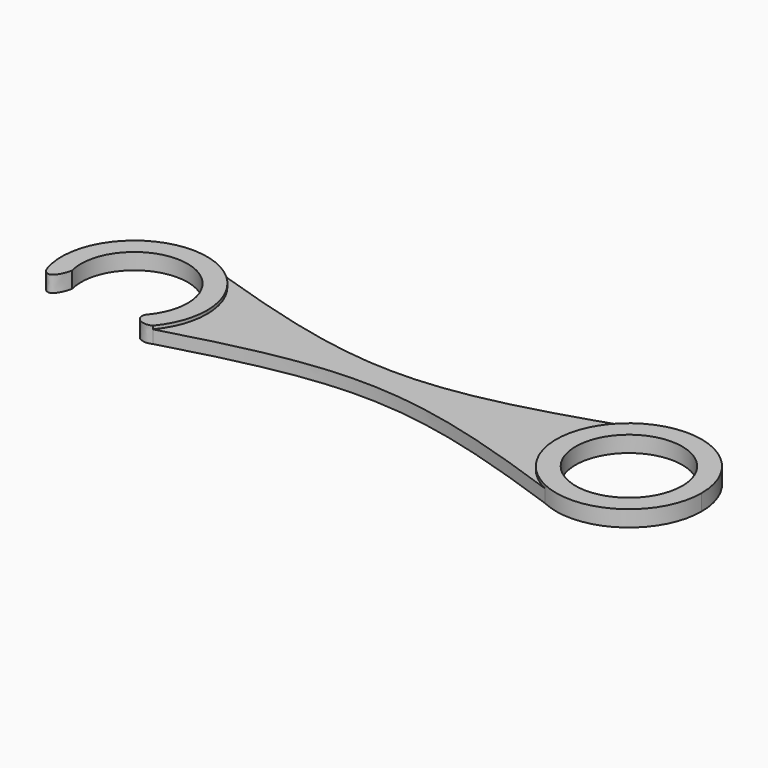
from build123d import *

# Parameters (mm, degrees)
F0_R     = 8.25
F1_DEPTH = 2.5
F2_DEPTH = 2


with BuildPart() as f1:
    # F0 (on Top) → F1 (new body)
    with BuildSketch(Plane.XY):
        with BuildLine():
            ThreePointArc((32.0688115177, 8.9962420553), (27.6273312583, -1.0959733646), (33.9415177003, -10.1353654102))
            ThreePointArc((33.9415177003, -10.1353654102), (44.8086587224, -9.5259748044), (50.073819207, 0))
            ThreePointArc((50.073819207, 0), (43.8521719937, 10.0637054931), (32.0688115177, 8.9962420553))
        make_face()
        with Locations((38.823819207, 0)):
            Circle(F0_R, mode=Mode.SUBTRACT)
    extrude(amount=F1_DEPTH)



with BuildPart() as f1b:
    # F0 (on Top) → F1, piece 2 (new body)
    with BuildSketch(Plane.XY):
        with BuildLine():
            ThreePointArc((-45.6604546957, -2.0769858561), (-38.7231383621, 8.1832988366), (-29.426180793, 0))
            ThreePointArc((-29.426180793, 0), (-29.8634270645, -2.6501658772), (-31.1288181692, -5.0194165669))
            ThreePointArc((-31.1288181692, -5.0194165669), (-31.2694247122, -5.1976895367), (-31.4148838182, -5.3720257066))
            add(Edge.make_bspline(
                [(-29.035736161, -7.2045275043), (-30.5396230029, -7.95646964), (-32.2793337143, -6.7201835537), (-31.4148838182, -5.3720257066)],
                knots=[0, 0, 0, 0, 2.7840168374, 2.7840168374, 2.7840168374, 2.7840168374], degree=3))
            ThreePointArc((-29.035736161, -7.2045275043), (-27.0986692211, -3.8312855473), (-26.426180793, 0))
            ThreePointArc((-26.426180793, 0), (-27.6571196172, 5.1167287553), (-31.080565354, 9.1137454968))
            ThreePointArc((-31.080565354, 9.1137454968), (-44.3248746058, 9.0750961749), (-48.354220505, -3.5414640914))
            add(Edge.make_bspline(
                [(-45.6604546957, -2.0769858561), (-46.4311366211, -5.0662274962), (-47.7208728718, -5.0662274962), (-48.354220505, -3.5414640914)],
                knots=[0, 0, 0, 0, 3.0661165562, 3.0661165562, 3.0661165562, 3.0661165562], degree=3))
        make_face()
    extrude(amount=F1_DEPTH)


with BuildPart() as f1_1:
    add(f1.part)

    add(f1b.part)  # F2 merges F1b
    # F0 (on Top) → F2 (join)
    with BuildSketch(Plane.XY):
        with BuildLine():
            ThreePointArc((-26.426180793, 0), (-27.0986692211, -3.8312855473), (-29.035736161, -7.2045275043))
            add(Edge.make_bspline(
                [(-29.035736161, -7.2045275043), (-3.4389084727, 0), (5.4949232749, 0), (33.9415177003, -10.1353654102)],
                knots=[0, 0, 0, 0, 63.0454147004, 63.0454147004, 63.0454147004, 63.0454147004], degree=3))
            ThreePointArc((33.9415177003, -10.1353654102), (27.6273312583, -1.0959733646), (32.0688115177, 8.9962420553))
            add(Edge.make_bspline(
                [(-31.080565354, 9.1137454968), (-3.4389084727, 0), (5.4949232749, 0), (32.0688115177, 8.9962420553)],
                knots=[0, 0, 0, 0, 63.1494861922, 63.1494861922, 63.1494861922, 63.1494861922], degree=3))
            ThreePointArc((-31.080565354, 9.1137454968), (-27.6571196172, 5.1167287553), (-26.426180793, 0))
        make_face()
    extrude(amount=F2_DEPTH)


solid = f1_1.part
